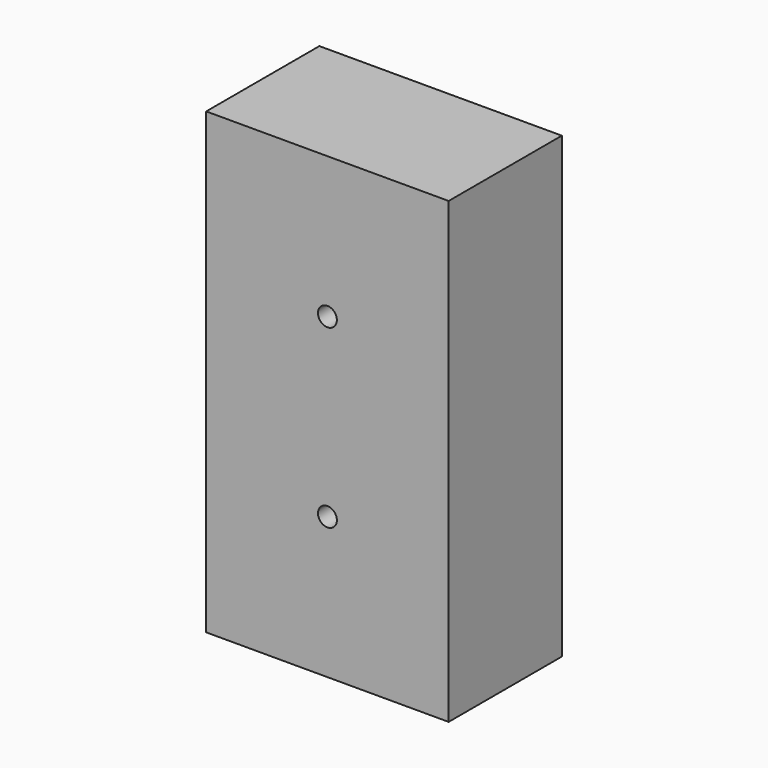
from build123d import *

# Parameters (mm, degrees)
F0_W     = 65.532
F0_H     = 123.952
F1_DEPTH = 38.227
F3_D     = 5.1054


with BuildPart() as f1:
    # F0 (on Front) → F1 (new body)
    with BuildSketch(Plane.XZ):
        Rectangle(F0_W, F0_H)
    extrude(amount=-F1_DEPTH)

    # F3 (through all)
    with Locations(Plane.XZ):
        with Locations((0, 23.8125), (0, -23.8125)):
            Hole(F3_D / 2)


solid = f1.part
